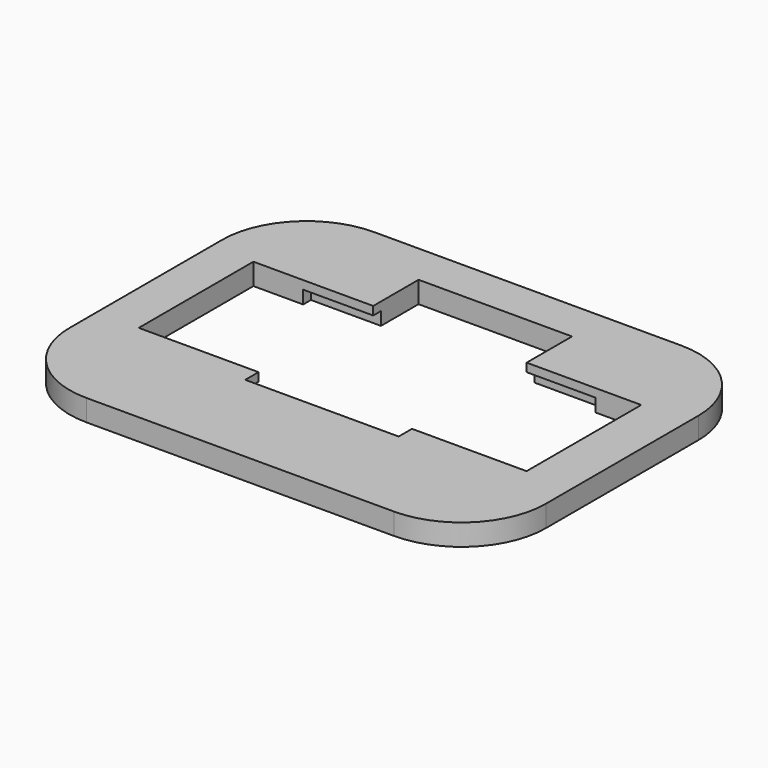
from build123d import *

# Parameters (mm, degrees)
EXTRUDE001_DEPTH      = 4
BOX001_W              = 46
BOX001_H              = 17
BOX001_DEPTH          = 10
SKETCH001_W           = 18.2
SKETCH001_H           = 25.7
EXTRUDE_DEPTH         = 10
EXTRUDE002_DEPTH      = 1
EXTRUDE002_DEPTH_BACK = 1.55


with BuildPart() as bottomboard:
    # Sketch002 → Extrude001 (new body)
    with BuildSketch(Plane.XY):
        Polygon((-0.1, 27.15), (34.579, 27.15), (34.579, 6.313), (25.753, 6.313), (25.753, -0.1), (9.361, -0.1), (9.361, 6.313), (-0.1, 6.313), align=None)
    extrude(amount=-EXTRUDE001_DEPTH)


with BuildPart() as obj1:
    # Box001 → Box001 (new body)
    with BuildSketch(Plane(origin=(-6, 9, -5), x_dir=(1, 0, 0), z_dir=(0, 0, 1))):
        with Locations((23, 8.5)):
            Rectangle(BOX001_W, BOX001_H)
    extrude(amount=BOX001_DEPTH)


with BuildPart() as cutouts:
    # Sketch001 → Extrude (new body, symmetric)
    with BuildSketch(Plane.XY):
        with Locations((17.308148, 19.873965)):
            Rectangle(SKETCH001_W, SKETCH001_H)
    extrude(amount=EXTRUDE_DEPTH, both=True)

    # Fusion: union bottomBoard, obj1
    add(bottomboard.part)
    add(obj1.part)


with BuildPart() as obj2:
    # Sketch003 → Extrude002 (new body, two sides)
    with BuildSketch(Plane.XY) as extrude002_sk:
        with BuildLine():
            ThreePointArc((-1, 37.623965), (-8.071068, 34.695033), (-11, 27.623965))
            Line((-11, 5), (-11, 27.623965))
            ThreePointArc((-11, 5), (-8.071068, -2.071068), (-1, -5))
            Line((35.479, -5), (-1, -5))
            ThreePointArc((35.479, -5), (42.550068, -2.071068), (45.479, 5))
            Line((45.479, 27.623965), (45.479, 5))
            ThreePointArc((45.479, 27.623965), (42.550068, 34.695033), (35.479, 37.623965))
            Line((-1, 37.623965), (35.479, 37.623965))
        make_face()
    extrude(amount=EXTRUDE002_DEPTH)
    extrude(extrude002_sk.sketch, amount=-EXTRUDE002_DEPTH_BACK)

    # Cut: cut CutOuts
    add(cutouts.part, mode=Mode.SUBTRACT)


solid = obj2.part
